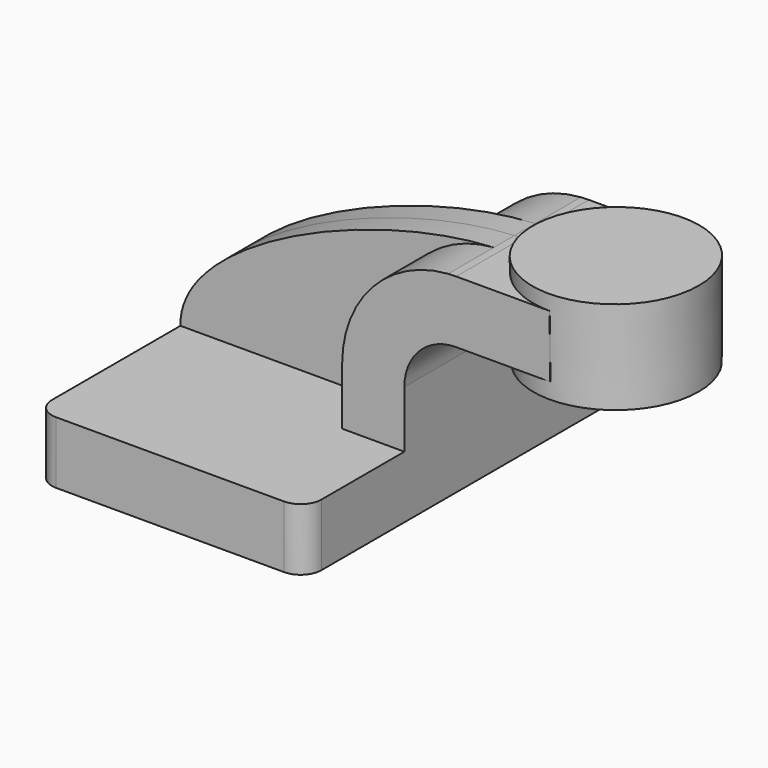
from build123d import *

# Parameters (mm, degrees)
F1_DEPTH = 63.5
F2_DEPTH = 25.4
F3_DEPTH = 7.9375
F5_R     = 6.35


with BuildPart() as f1:
    # F0 (on Front) → F1 (new body, symmetric)
    with BuildSketch(Plane.XZ):
        Polygon((41.275, -9.525), (41.275, 9.525), (22.225, 9.525), (-41.275, 9.525), (-41.275, -9.525), align=None)
    extrude(amount=F1_DEPTH, both=True)

    # F0 (on Front) → F2 (join, symmetric)
    with BuildSketch(Plane.XZ):
        with BuildLine():
            Line((22.225, 9.525), (41.275, 9.525))
            Line((41.275, 9.525), (41.275, 27.0002))
            ThreePointArc((41.275, 27.0002), (45.9246798487, 38.2255201513), (57.15, 42.8752))
            Line((57.15, 42.8752), (60.325, 42.8752))
            Line((60.325, 42.8752), (60.325, 61.9252))
            Line((60.325, 61.9252), (57.15, 61.9252))
            add(Edge.make_bspline(
                [(54.6691726914, 61.8369782791), (55.5065067591, 61.8779502767), (56.3337362614, 61.9074431943), (57.15, 61.9252)],
                knots=[109.0952645489, 109.0952645489, 109.0952645489, 109.0952645489, 111.5045361635, 111.5045361635, 111.5045361635, 111.5045361635], degree=3))
            ThreePointArc((54.6691726914, 61.8369782791), (31.592236808, 50.8026445304), (22.225, 27.0002))
            Line((22.225, 27.0002), (22.225, 9.525))
        make_face()
        Polygon((60.325, 61.9252), (60.325, 42.8752), (85.8856061574, 42.8752), (85.7570526696, 61.9252), align=None)
    extrude(amount=F2_DEPTH, both=True)

    # F0 (on Front) → F3 (join, symmetric)
    with BuildSketch(Plane.XZ):
        with BuildLine():
            Line((-41.275, 9.525), (22.225, 9.525))
            Line((22.225, 9.525), (22.225, 27.0002))
            ThreePointArc((22.225, 27.0002), (31.592236808, 50.8026445304), (54.6691726914, 61.8369782791))
            add(Edge.make_bspline(
                [(-41.275, 9.525), (-41.8806763556, 34.5896402805), (16.7534885196, 59.9817076265), (54.6691726914, 61.8369782791)],
                knots=[0, 0, 0, 0, 109.0952645489, 109.0952645489, 109.0952645489, 109.0952645489], degree=3))
        make_face()
    extrude(amount=F3_DEPTH, both=True)

    # F0 (on Front) → F4 (revolve)
    with BuildSketch(Plane.XZ):
        Polygon((85.7570526696, 61.9252), (85.8856061574, 42.8752), (85.9178302317, 38.1), (111.125, 38.1), (111.125, 66.675), (85.725, 66.675), align=None)
    revolve(axis=Axis((85.8214151158, 0, 52.3875), (0.0067480609, 0, -0.9999772316)))

    # F5
    f5_edges = [f1.edges().sort_by_distance(p)[0] for p in [
        (41.275, -63.5, 0),
        (-41.275, -63.5, 0),
        (-41.275, 63.5, 0),
        (41.275, 63.5, 0),
    ]]
    fillet(f5_edges, radius=F5_R)


solid = f1.part
